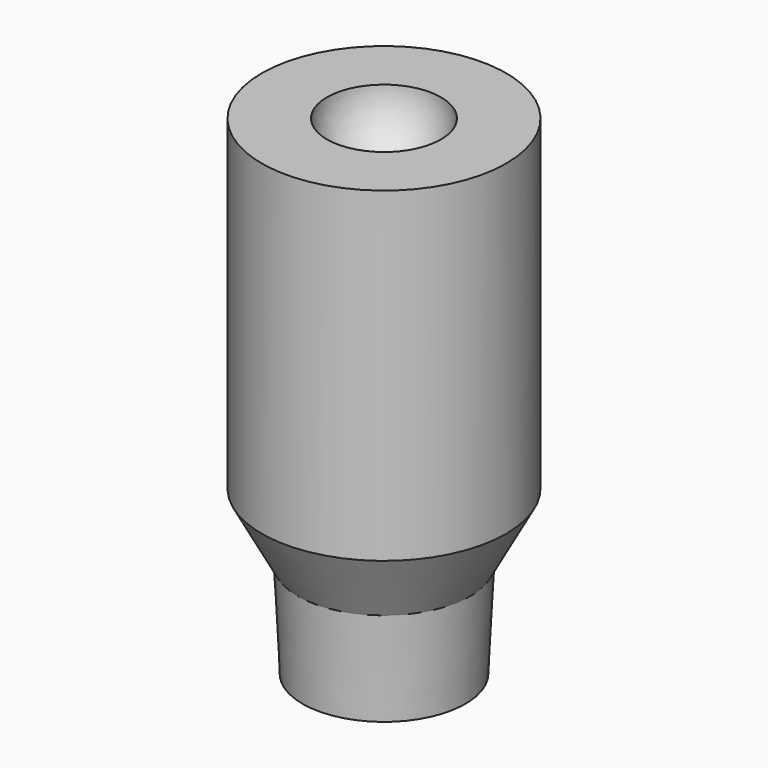
from build123d import *


with BuildPart() as part:
    # Sketch → Revolution (revolve)
    with BuildSketch(Plane.XZ):
        with BuildLine():
            Line((0, 0), (-5, 0))
            Line((-5, 0), (-5.286718, 5.90375))
            Line((-5.286718, 5.90375), (-7.5, 10))
            Line((-7.5, 10), (-7.5, 30))
            Line((-7.5, 30), (-3.5, 30))
            ThreePointArc((-3.5, 30), (-2.474874, 27.525126), (0, 26.5))
            Line((0, 26.5), (0, 0))
        make_face()
    revolve(axis=Axis((0, 0, 0), (0, 0, 1)))


solid = part.part
